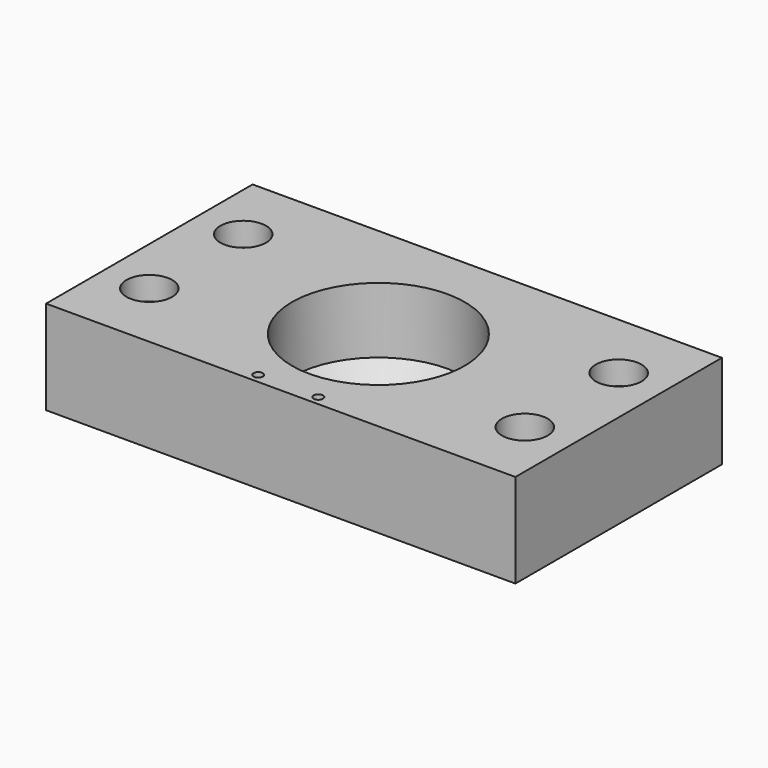
from build123d import *

# Parameters (mm, degrees)
F0_W           = 100
F0_H           = 55
F1_DEPTH       = 20
F3_D           = 26
F4_D           = 36.8
F4_DEPTH       = 14
F4_TIP         = 11.0558353901
F6_D           = 2
F8_D           = 5.5
F8_CBORE_D     = 9.75
F8_CBORE_DEPTH = 5


with BuildPart() as f1:
    # F0 (on Top) → F1 (new body)
    with BuildSketch(Plane.XY):
        with Locations((-2.2873312235, 1.0893514007)):
            Rectangle(F0_W, F0_H)
    extrude(amount=F1_DEPTH)

    # F3 (through all)
    with Locations(Plane.XY.offset(20)):
        with Locations((-2.2873312235, -0.4106485993)):
            Hole(F3_D / 2)

    # F4
    with Locations(Plane.XY.offset(20)):
        with Locations((-2.2873312235, -0.4106485993)):
            Hole(F4_D / 2, depth=F4_DEPTH)
            with Locations((0, 0, -(F4_DEPTH + F4_TIP / 2))):  # 118° drill point
                Cone(0, F4_D / 2, F4_TIP, mode=Mode.SUBTRACT)

    # F6 (through all)
    with Locations(Plane.XY.offset(20)):
        with Locations((-8.6873312235, -24.4106485993), (4.1126687765, -24.4106485993)):
            Hole(F6_D / 2)

    # F8 (through all)
    with Locations(Plane.XY.offset(20)):
        with Locations((-42.2873312235, 13.5893514007), (-42.2873312235, -11.4106485993), (37.7126687765, -11.4106485993), (37.7126687765, 13.5893514007)):
            CounterBoreHole(F8_D / 2, F8_CBORE_D / 2, F8_CBORE_DEPTH)


solid = f1.part
